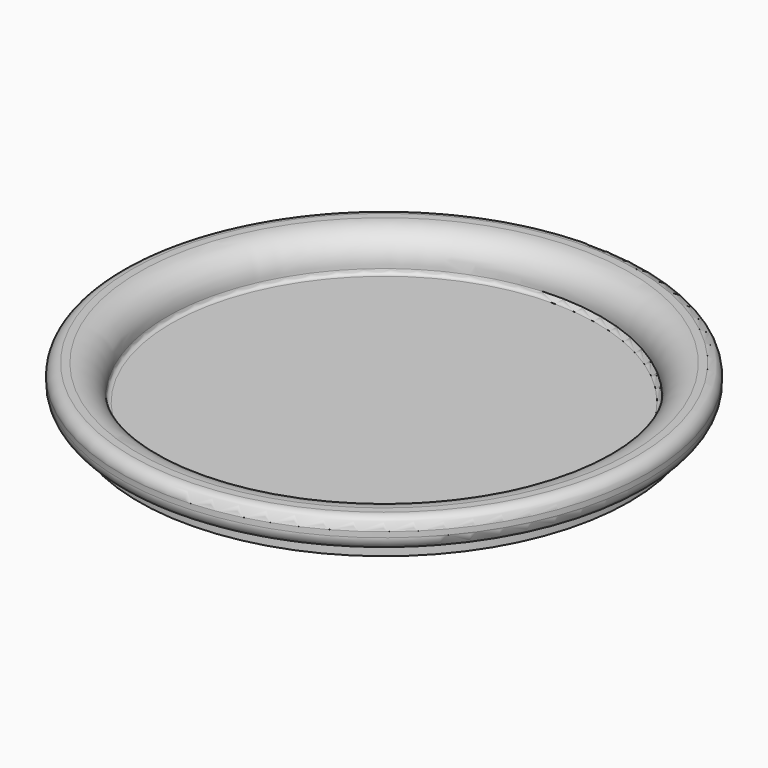
from build123d import *


with BuildPart() as f1:
    # F0 (on Front) → F1 (revolve)
    with BuildSketch(Plane.XZ):
        with BuildLine():
            Line((0, 1.753707), (0, 0))
            Line((0, 0), (55.3593, 0))
            Line((55.3593, 0), (55.3593, 2.286))
            ThreePointArc((55.3593, 2.286), (55.50809, 2.64521), (55.8673, 2.794))
            Line((55.8673, 2.794), (56.495519, 2.794))
            ThreePointArc((56.495519, 2.794), (58.65078, 3.686739), (59.543519, 5.842))
            Line((59.543519, 5.842), (59.543519, 7.047515))
            ThreePointArc((59.543519, 7.047515), (58.79957, 8.843567), (57.003519, 9.587515))
            Line((57.003519, 9.587515), (55.3593, 9.587515))
            ThreePointArc((55.3593, 9.587515), (50.715012, 7.567999), (49.024808, 2.794))
            ThreePointArc((49.024808, 2.794), (48.775942, 2.073602), (48.084151, 1.753707))
            Line((48.084151, 1.753707), (0, 1.753707))
        make_face()
    revolve(axis=Axis((0, 0, 0.876853), (0, 0, 1)))


solid = f1.part
